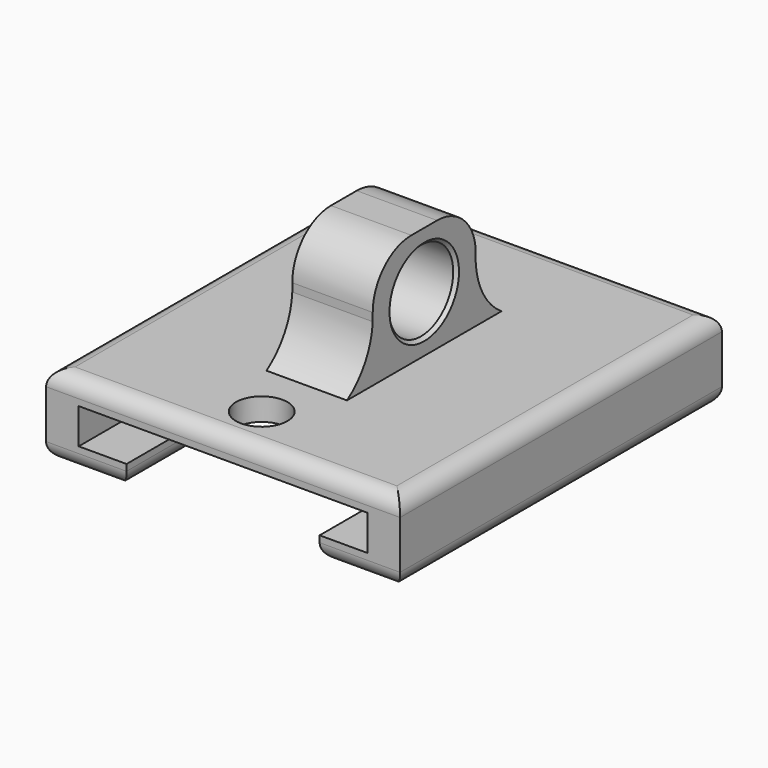
from build123d import *

# Parameters (mm, degrees)
F0_W      = 22
F0_H      = 25
F1_DEPTH  = 2.5
F3_DEPTH  = 1.1
F5_DEPTH  = 25
F6_R      = 1.6
F7_DEPTH  = 29.4
F8_R      = 2.5
F9_DEPTH  = 2.5
F11_DEPTH = 2.5
F12_R     = 1
F13_SIZE  = 0.2


with BuildPart() as f1:
    # F0 (on Top) → F1 (new body, symmetric)
    with BuildSketch(Plane.XY):
        Rectangle(F0_W, F0_H)
    extrude(amount=F1_DEPTH, both=True)

    # F2 (on Top) → F3 (cut, symmetric)
    with BuildSketch(Plane.XY):
        with BuildLine():
            ThreePointArc((8.9721792225, 0), (9.180282071, 1.1164563987), (9.25, 2.25))
            ThreePointArc((9.25, 2.25), (-1.1335436013, 11.430282071), (-8.9721792225, 0))
            ThreePointArc((-8.9721792225, 0), (0, -7), (8.9721792225, 0))
        make_face()
        with BuildLine():
            ThreePointArc((8.9721792225, 0), (0, -7), (-8.9721792225, 0))
            Line((-8.9721792225, 0), (-8.9721792225, -12.5))
            Line((-8.9721792225, -12.5), (8.9721792225, -12.5))
            Line((8.9721792225, -12.5), (8.9721792225, 0))
        make_face()
    extrude(amount=F3_DEPTH, both=True, mode=Mode.SUBTRACT)

    # F4 (on Top) → F5 (cut)
    with BuildSketch(Plane.XY):
        with BuildLine():
            ThreePointArc((-6, 0), (0, -6), (6, 0))
            ThreePointArc((6, 0), (0, 6), (-6, 0))
        make_face()
        with BuildLine():
            Line((6, -12.5), (6, 0))
            ThreePointArc((6, 0), (0, -6), (-6, 0))
            Line((-6, 0), (-6, -12.5))
            Line((-6, -12.5), (6, -12.5))
        make_face()
    extrude(amount=-F5_DEPTH, mode=Mode.SUBTRACT)

    # F6 (on Top) → F7 (cut)
    with BuildSketch(Plane.XY):
        with Locations((0, -9.5)):
            Circle(F6_R)
    extrude(amount=F7_DEPTH, mode=Mode.SUBTRACT)

    # F8 (on Right) → F9 (join, symmetric)
    with BuildSketch(Plane.YZ):
        with BuildLine():
            Line((1, 9.5), (-1, 9.5))
            ThreePointArc((-1, 9.5), (-3.1213203436, 8.6213203436), (-4, 6.5))
            Line((-4, 6.5), (-4, 2.5))
            Line((-4, 2.5), (4, 2.5))
            Line((4, 2.5), (4, 6.5))
            ThreePointArc((4, 6.5), (3.1213203436, 8.6213203436), (1, 9.5))
        make_face()
        with Locations((0, 6)):
            Circle(F8_R, mode=Mode.SUBTRACT)
    extrude(amount=F9_DEPTH, both=True)

    # F10 (on Right) → F11 (join, symmetric)
    with BuildSketch(Plane.YZ):
        with BuildLine():
            ThreePointArc((4, 6.5), (3.9928498393, 6.2464249197), (4, 5.9928498393))
            Line((4, 5.9928498393), (4, 6.5))
        make_face()
        with BuildLine():
            Line((4, 2.5), (6, 2.5))
            ThreePointArc((6, 2.5), (4.5877250014, 4.0103569422), (4, 5.9928498393))
            Line((4, 5.9928498393), (4, 2.5))
        make_face()
        with BuildLine():
            ThreePointArc((-4, 5.9928498393), (-4.5877250014, 4.0103569422), (-6, 2.5))
            Line((-6, 2.5), (-4, 2.5))
            Line((-4, 2.5), (-4, 5.9928498393))
        make_face()
        with BuildLine():
            Line((-4, 6.5), (-4, 5.9928498393))
            ThreePointArc((-4, 5.9928498393), (-3.9928498393, 6.2464249197), (-4, 6.5))
        make_face()
    extrude(amount=F11_DEPTH, both=True)

    # F12
    f12_edges = [f1.edges().sort_by_distance(p)[0] for p in [
        (-11, 0, -2.5),
        (-11, 0, 2.5),
        (11, 0, 2.5),
        (11, 0, -2.5),
        (0, -12.5, 2.5),
        (0, 12.5, 2.5),
        (0, 12.5, -2.5),
        (8.5, -12.5, -2.5),
        (-8.5, -12.5, -2.5),
        (6, -6.25, -2.5),
    ]]
    fillet(f12_edges, radius=F12_R)

    # F13
    f13_edges = [f1.edges().sort_by_distance(p)[0] for p in [
        (2.5, -2.5, 6),
        (-2.5, -2.5, 6),
    ]]
    chamfer(f13_edges, length=F13_SIZE)


solid = f1.part
